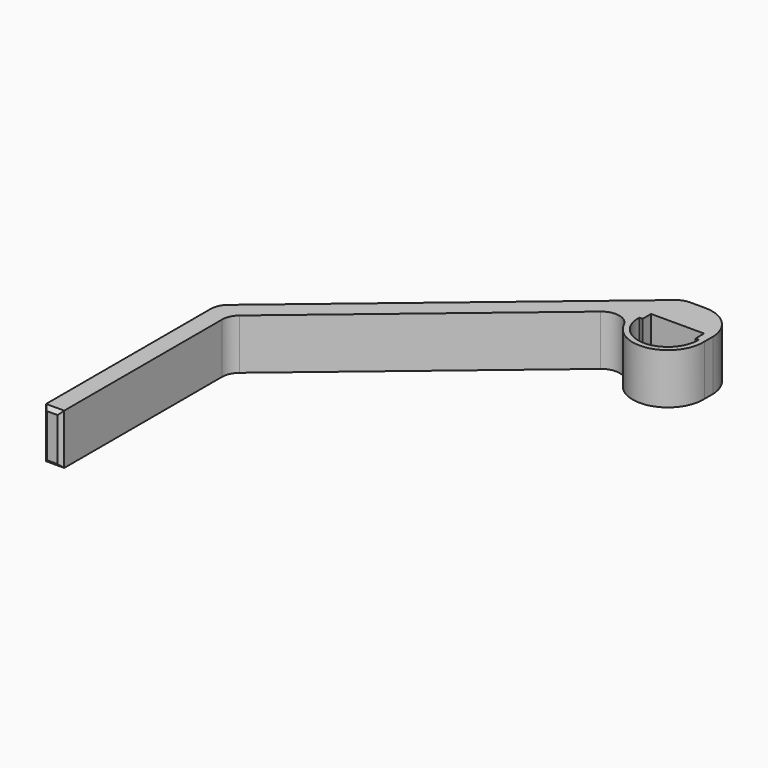
from build123d import *

# Parameters (mm, degrees)
F1_DEPTH = 13.9
F2_R     = 5
F3_R     = 5
F4_R     = 5
F5_SIZE  = 1


with BuildPart() as f1:
    # F0 (on Top) → F1 (new body)
    with BuildSketch(Plane.XY):
        with BuildLine():
            Line((-18.716553, -5.452939), (-18.716553, -65.452939))
            Line((-18.716553, -65.452939), (-13.716553, -65.452939))
            Line((-13.716553, -65.452939), (-13.716553, -7.784481))
            Line((-13.716553, -7.784481), (54.288781, 49.278771))
            ThreePointArc((54.288781, 49.278771), (57.086409, 56.09465), (63.865801, 58.979571))
            Line((63.865801, 58.979571), (58.071121, 58.979571))
            Line((58.071121, 58.979571), (-18.716553, -5.452939))
        make_face()
        with BuildLine():
            Line((64.114961, 58.979571), (63.865801, 58.979571))
            ThreePointArc((63.865801, 58.979571), (57.086409, 56.09465), (54.288781, 49.278771))
            Line((54.288781, 49.278771), (54.288781, 46.61191))
            ThreePointArc((54.288781, 46.61191), (63.988781, 36.498362), (73.688781, 46.61191))
            Line((73.688781, 46.61191), (73.688781, 49.52791))
            ThreePointArc((73.688781, 49.52791), (70.80626, 56.182743), (64.114961, 58.979571))
        make_face()
        with BuildLine():
            Line((56.688781, 49.52791), (71.288781, 49.52791))
            Line((71.288781, 49.52791), (71.288781, 46.61191))
            Line((71.288781, 46.61191), (72.188781, 46.61191))
            ThreePointArc((72.188781, 46.61191), (63.988781, 37.996817), (55.788781, 46.61191))
            Line((55.788781, 46.61191), (56.688781, 46.61191))
            Line((56.688781, 46.61191), (56.688781, 49.52791))
        make_face(mode=Mode.SUBTRACT)
        with BuildLine():
            ThreePointArc((64.114961, 58.979571), (63.990381, 58.98037), (63.865801, 58.979571))
            Line((63.865801, 58.979571), (64.114961, 58.979571))
        make_face()
    extrude(amount=F1_DEPTH)

    # F2
    f2_edges = [f1.edges().sort_by_distance(p)[0] for p in [
        (58.071121, 58.979571, 6.95),
    ]]
    fillet(f2_edges, radius=F2_R)

    # F3
    f3_edges = [f1.edges().sort_by_distance(p)[0] for p in [
        (54.288781, 49.278771, 6.95),
    ]]
    fillet(f3_edges, radius=F3_R)

    # F4
    f4_edges = [f1.edges().sort_by_distance(p)[0] for p in [
        (-13.716553, -7.784481, 6.95),
        (-18.716553, -5.452939, 6.95),
    ]]
    fillet(f4_edges, radius=F4_R)

    # F5
    f5_edges = [f1.edges().sort_by_distance(p)[0] for p in [
        (-18.716553, -65.452939, 6.95),
        (-16.216553, -65.452939, 13.9),
        (-13.716553, -65.452939, 6.95),
        (-16.216553, -65.452939, 0),
    ]]
    chamfer(f5_edges, length=F5_SIZE)


solid = f1.part
